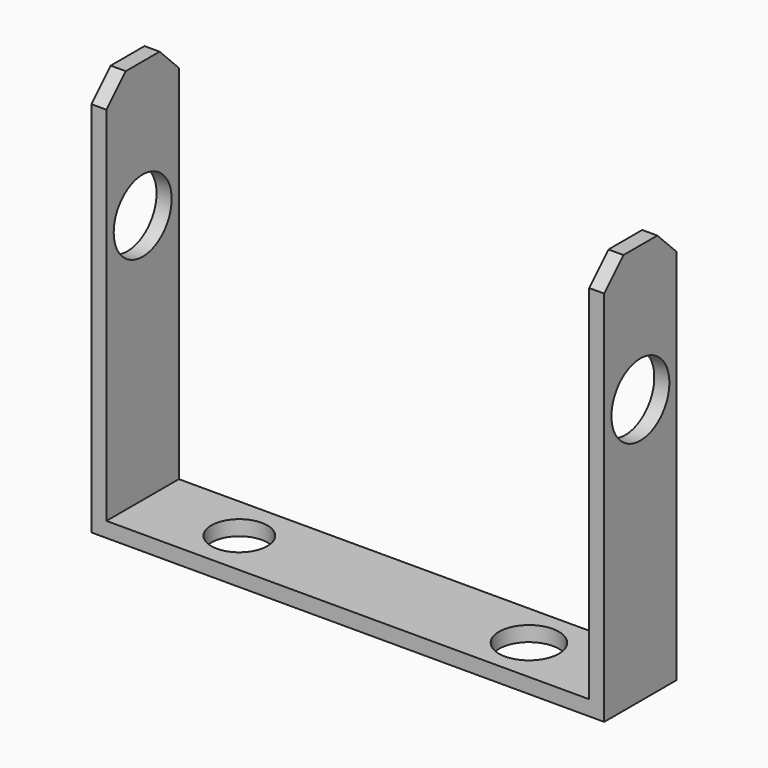
from build123d import *

# Parameters (mm, degrees)
F0_W     = 107.95
F0_H     = 19.05
F1_DEPTH = 3.175
F2_W     = 3.175
F2_H     = 19.05
F3_DEPTH = 81.28
F4_SIZE  = 5.08
F5_R     = 7.62
F6_DEPTH = 107.95
F7_R     = 5.906651
F7_R_2   = 6.296928
F8_DEPTH = 3.175


with BuildPart() as f1:
    # F0 (on Top) → F1 (new body)
    with BuildSketch(Plane.XY):
        Rectangle(F0_W, F0_H)
    extrude(amount=-F1_DEPTH)

    # F2 (on Top) → F3 (join)
    with BuildSketch(Plane.XY):
        with Locations((-52.3875, 0)):
            Rectangle(F2_W, F2_H)
        with Locations((52.3875, 0)):
            Rectangle(F2_W, F2_H)
    extrude(amount=F3_DEPTH)

    # F4
    f4_edges = [f1.edges().sort_by_distance(p)[0] for p in [
        (52.3875, -9.525, 81.28),
        (52.3875, 9.525, 81.28),
        (-52.3875, -9.525, 81.28),
        (-52.3875, 9.525, 81.28),
    ]]
    chamfer(f4_edges, length=F4_SIZE)

    # F5 (on face) → F6 (cut, through all)
    with BuildSketch(Plane(origin=(-53.975, 0, 0), x_dir=(0, -1, 0), z_dir=(-1, 0, 0))):
        with Locations((0, 52.705)):
            Circle(F5_R)
    extrude(amount=-F6_DEPTH, mode=Mode.SUBTRACT)

    # F7 (on face) → F8 (cut, through all)
    with BuildSketch(Plane.XY):
        with Locations((-30.449122, 0)):
            Circle(F7_R)
        with Locations((30.510878, 0)):
            Circle(F7_R_2)
    extrude(amount=-F8_DEPTH, mode=Mode.SUBTRACT)


solid = f1.part
